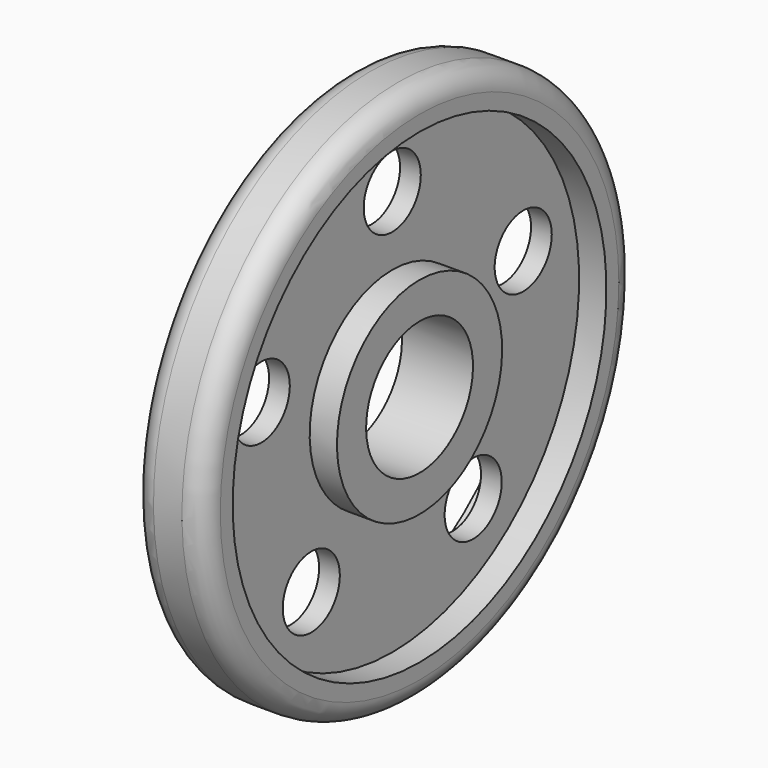
from build123d import *

# Parameters (mm, degrees)
F2_R     = 5.021426
F3_DEPTH = 25
F4_R     = 3


with BuildPart() as f1:
    # F0 (on Front) → F1 (revolve)
    with BuildSketch(Plane.XZ):
        Polygon((0, 14.5267), (0, 9.400629), (10, 9.400629), (10, 14.5267), (6.157054, 14.5267), (6.157054, 32.876216), (10, 32.876216), (10, 38.057327), (0, 38.057327), (0, 32.876216), (3.236998, 32.876216), (3.236998, 14.5267), align=None)
    revolve(axis=Axis((5, 0, 0), (1, 0, 0)))

    # F2 (on face) → F3 (cut)
    with BuildSketch(Plane.YZ.offset(6.157054)):
        with Locations((-23.041325, 7.48658)):
            Circle(F2_R)
        with Locations((0, 24.227083)):
            Circle(F2_R)
        with Locations((23.041325, 7.48658)):
            Circle(F2_R)
        with Locations((14.240322, -19.600122)):
            Circle(F2_R)
        with Locations((-14.240322, -19.600122)):
            Circle(F2_R)
    extrude(amount=-F3_DEPTH, mode=Mode.SUBTRACT)

    # F4
    f4_edges = [f1.edges().sort_by_distance(p)[0] for p in [
        (0, 0, -38.057327),
        (10, 0, -38.057327),
    ]]
    fillet(f4_edges, radius=F4_R)


solid = f1.part
